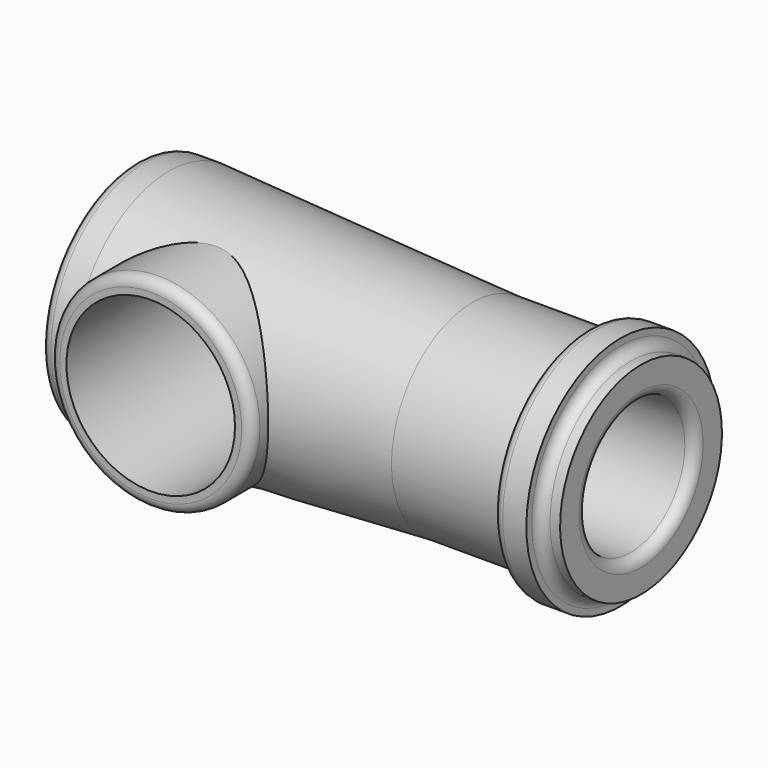
from build123d import *

# Parameters (mm, degrees)
F2_R     = 15
F3_DEPTH = 19
F4_R     = 12.5
F5_DEPTH = 25
F6_R     = 1.5


with BuildPart() as f1:
    # F0 (on Front) → F1 (revolve)
    with BuildSketch(Plane.XZ):
        Polygon((0, 17.5), (0, 0), (60, 0), (60, 10), (75, 10), (75, 15), (72, 15), (72, 17.5), (67, 17.5), (67, 15), (50, 15), (5, 17.5), align=None)
        Polygon((0, 17.5), (0, 0), (60, 0), (60, 10), (75, 10), (75, 15), (72, 15), (72, 17.5), (67, 17.5), (67, 15), (50, 15), (5, 17.5), align=None)
    revolve(axis=Axis((30, 0, 0), (1, 0, 0)))

    # F2 (on Front) → F3 (join)
    with BuildSketch(Plane.XZ):
        with Locations((17.5, 0)):
            Circle(F2_R)
    extrude(amount=F3_DEPTH)

    # F4 (on face) → F5 (cut)
    with BuildSketch(Plane.XZ.offset(19)):
        with Locations((17.5, 0)):
            Circle(F4_R)
    extrude(amount=-F5_DEPTH, mode=Mode.SUBTRACT)

    # F6
    f6_edges = [f1.edges().sort_by_distance(p)[0] for p in [
        (2.5, -19, 0),
        (0, 0, -17.5),
        (67, 0, -17.5),
        (75, 0, -10),
        (72, 0, -15),
    ]]
    fillet(f6_edges, radius=F6_R)


solid = f1.part
